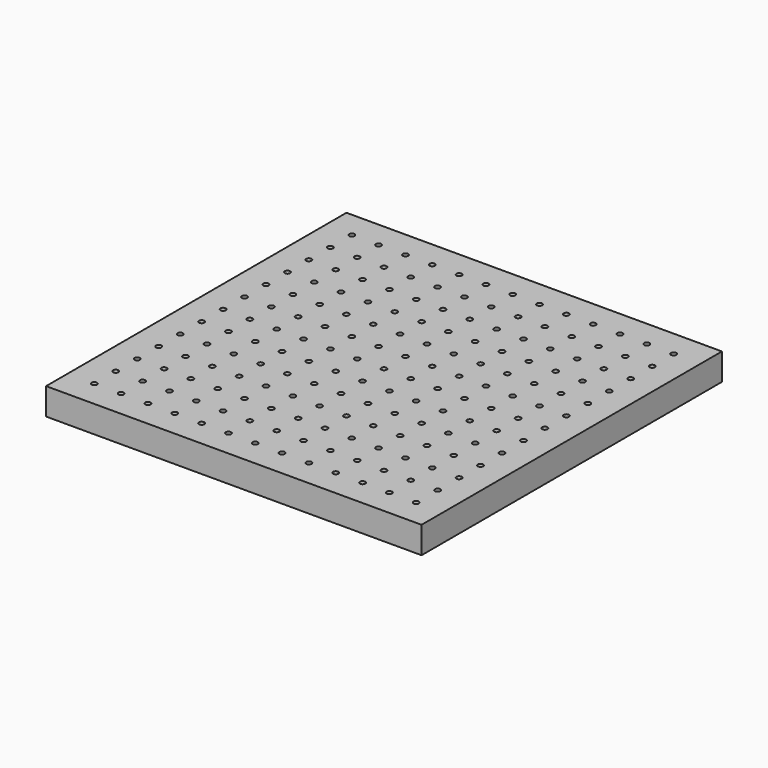
from build123d import *

# Parameters (mm, degrees)
F0_W     = 700
F0_H     = 700
F0_R     = 5
F1_DEPTH = 50


with BuildPart() as f1:
    # F0 (on Top) → F1 (new body)
    with BuildSketch(Plane.XY):
        Rectangle(F0_W, F0_H)
        with Locations((-300, -300)):
            Circle(F0_R, mode=Mode.SUBTRACT)
        with Locations((-250, -300)):
            Circle(F0_R, mode=Mode.SUBTRACT)
        with Locations((-200, -300)):
            Circle(F0_R, mode=Mode.SUBTRACT)
        with Locations((-300, -250)):
            Circle(F0_R, mode=Mode.SUBTRACT)
        with Locations((-300, -200)):
            Circle(F0_R, mode=Mode.SUBTRACT)
        with Locations((-250, -250)):
            Circle(F0_R, mode=Mode.SUBTRACT)
        with Locations((-200, -250)):
            Circle(F0_R, mode=Mode.SUBTRACT)
        with Locations((-250, -200)):
            Circle(F0_R, mode=Mode.SUBTRACT)
        with Locations((-200, -200)):
            Circle(F0_R, mode=Mode.SUBTRACT)
        with Locations((-150, -300)):
            Circle(F0_R, mode=Mode.SUBTRACT)
        with Locations((-100, -300)):
            Circle(F0_R, mode=Mode.SUBTRACT)
        with Locations((-50, -300)):
            Circle(F0_R, mode=Mode.SUBTRACT)
        with Locations((-150, -250)):
            Circle(F0_R, mode=Mode.SUBTRACT)
        with Locations((-100, -250)):
            Circle(F0_R, mode=Mode.SUBTRACT)
        with Locations((-150, -200)):
            Circle(F0_R, mode=Mode.SUBTRACT)
        with Locations((-100, -200)):
            Circle(F0_R, mode=Mode.SUBTRACT)
        with Locations((-50, -250)):
            Circle(F0_R, mode=Mode.SUBTRACT)
        with Locations((-50, -200)):
            Circle(F0_R, mode=Mode.SUBTRACT)
        with Locations((-300, -150)):
            Circle(F0_R, mode=Mode.SUBTRACT)
        with Locations((-300, -100)):
            Circle(F0_R, mode=Mode.SUBTRACT)
        with Locations((-250, -150)):
            Circle(F0_R, mode=Mode.SUBTRACT)
        with Locations((-200, -150)):
            Circle(F0_R, mode=Mode.SUBTRACT)
        with Locations((-250, -100)):
            Circle(F0_R, mode=Mode.SUBTRACT)
        with Locations((-200, -100)):
            Circle(F0_R, mode=Mode.SUBTRACT)
        with Locations((-300, -50)):
            Circle(F0_R, mode=Mode.SUBTRACT)
        with Locations((-250, -50)):
            Circle(F0_R, mode=Mode.SUBTRACT)
        with Locations((-200, -50)):
            Circle(F0_R, mode=Mode.SUBTRACT)
        with Locations((-150, -150)):
            Circle(F0_R, mode=Mode.SUBTRACT)
        with Locations((-100, -150)):
            Circle(F0_R, mode=Mode.SUBTRACT)
        with Locations((-150, -100)):
            Circle(F0_R, mode=Mode.SUBTRACT)
        with Locations((-100, -100)):
            Circle(F0_R, mode=Mode.SUBTRACT)
        with Locations((-50, -150)):
            Circle(F0_R, mode=Mode.SUBTRACT)
        with Locations((-50, -100)):
            Circle(F0_R, mode=Mode.SUBTRACT)
        with Locations((-150, -50)):
            Circle(F0_R, mode=Mode.SUBTRACT)
        with Locations((-100, -50)):
            Circle(F0_R, mode=Mode.SUBTRACT)
        with Locations((-50, -50)):
            Circle(F0_R, mode=Mode.SUBTRACT)
        with Locations((0, -300)):
            Circle(F0_R, mode=Mode.SUBTRACT)
        with Locations((50, -300)):
            Circle(F0_R, mode=Mode.SUBTRACT)
        with Locations((100, -300)):
            Circle(F0_R, mode=Mode.SUBTRACT)
        with Locations((150, -300)):
            Circle(F0_R, mode=Mode.SUBTRACT)
        with Locations((0, -250)):
            Circle(F0_R, mode=Mode.SUBTRACT)
        with Locations((50, -250)):
            Circle(F0_R, mode=Mode.SUBTRACT)
        with Locations((0, -200)):
            Circle(F0_R, mode=Mode.SUBTRACT)
        with Locations((50, -200)):
            Circle(F0_R, mode=Mode.SUBTRACT)
        with Locations((100, -250)):
            Circle(F0_R, mode=Mode.SUBTRACT)
        with Locations((150, -250)):
            Circle(F0_R, mode=Mode.SUBTRACT)
        with Locations((100, -200)):
            Circle(F0_R, mode=Mode.SUBTRACT)
        with Locations((150, -200)):
            Circle(F0_R, mode=Mode.SUBTRACT)
        with Locations((200, -300)):
            Circle(F0_R, mode=Mode.SUBTRACT)
        with Locations((250, -300)):
            Circle(F0_R, mode=Mode.SUBTRACT)
        with Locations((300, -300)):
            Circle(F0_R, mode=Mode.SUBTRACT)
        with Locations((200, -250)):
            Circle(F0_R, mode=Mode.SUBTRACT)
        with Locations((250, -250)):
            Circle(F0_R, mode=Mode.SUBTRACT)
        with Locations((200, -200)):
            Circle(F0_R, mode=Mode.SUBTRACT)
        with Locations((250, -200)):
            Circle(F0_R, mode=Mode.SUBTRACT)
        with Locations((300, -250)):
            Circle(F0_R, mode=Mode.SUBTRACT)
        with Locations((300, -200)):
            Circle(F0_R, mode=Mode.SUBTRACT)
        with Locations((0, -150)):
            Circle(F0_R, mode=Mode.SUBTRACT)
        with Locations((50, -150)):
            Circle(F0_R, mode=Mode.SUBTRACT)
        with Locations((0, -100)):
            Circle(F0_R, mode=Mode.SUBTRACT)
        with Locations((50, -100)):
            Circle(F0_R, mode=Mode.SUBTRACT)
        with Locations((100, -150)):
            Circle(F0_R, mode=Mode.SUBTRACT)
        with Locations((150, -150)):
            Circle(F0_R, mode=Mode.SUBTRACT)
        with Locations((100, -100)):
            Circle(F0_R, mode=Mode.SUBTRACT)
        with Locations((150, -100)):
            Circle(F0_R, mode=Mode.SUBTRACT)
        with Locations((0, -50)):
            Circle(F0_R, mode=Mode.SUBTRACT)
        with Locations((50, -50)):
            Circle(F0_R, mode=Mode.SUBTRACT)
        with Locations((100, -50)):
            Circle(F0_R, mode=Mode.SUBTRACT)
        with Locations((150, -50)):
            Circle(F0_R, mode=Mode.SUBTRACT)
        with Locations((200, -150)):
            Circle(F0_R, mode=Mode.SUBTRACT)
        with Locations((250, -150)):
            Circle(F0_R, mode=Mode.SUBTRACT)
        with Locations((200, -100)):
            Circle(F0_R, mode=Mode.SUBTRACT)
        with Locations((250, -100)):
            Circle(F0_R, mode=Mode.SUBTRACT)
        with Locations((300, -150)):
            Circle(F0_R, mode=Mode.SUBTRACT)
        with Locations((300, -100)):
            Circle(F0_R, mode=Mode.SUBTRACT)
        with Locations((200, -50)):
            Circle(F0_R, mode=Mode.SUBTRACT)
        with Locations((250, -50)):
            Circle(F0_R, mode=Mode.SUBTRACT)
        with Locations((300, -50)):
            Circle(F0_R, mode=Mode.SUBTRACT)
        with Locations((-300, 0)):
            Circle(F0_R, mode=Mode.SUBTRACT)
        with Locations((-300, 50)):
            Circle(F0_R, mode=Mode.SUBTRACT)
        with Locations((-250, 0)):
            Circle(F0_R, mode=Mode.SUBTRACT)
        with Locations((-200, 0)):
            Circle(F0_R, mode=Mode.SUBTRACT)
        with Locations((-250, 50)):
            Circle(F0_R, mode=Mode.SUBTRACT)
        with Locations((-200, 50)):
            Circle(F0_R, mode=Mode.SUBTRACT)
        with Locations((-300, 100)):
            Circle(F0_R, mode=Mode.SUBTRACT)
        with Locations((-300, 150)):
            Circle(F0_R, mode=Mode.SUBTRACT)
        with Locations((-250, 100)):
            Circle(F0_R, mode=Mode.SUBTRACT)
        with Locations((-200, 100)):
            Circle(F0_R, mode=Mode.SUBTRACT)
        with Locations((-250, 150)):
            Circle(F0_R, mode=Mode.SUBTRACT)
        with Locations((-200, 150)):
            Circle(F0_R, mode=Mode.SUBTRACT)
        with Locations((-150, 0)):
            Circle(F0_R, mode=Mode.SUBTRACT)
        with Locations((-100, 0)):
            Circle(F0_R, mode=Mode.SUBTRACT)
        with Locations((-150, 50)):
            Circle(F0_R, mode=Mode.SUBTRACT)
        with Locations((-100, 50)):
            Circle(F0_R, mode=Mode.SUBTRACT)
        with Locations((-50, 0)):
            Circle(F0_R, mode=Mode.SUBTRACT)
        with Locations((-50, 50)):
            Circle(F0_R, mode=Mode.SUBTRACT)
        with Locations((-150, 100)):
            Circle(F0_R, mode=Mode.SUBTRACT)
        with Locations((-100, 100)):
            Circle(F0_R, mode=Mode.SUBTRACT)
        with Locations((-150, 150)):
            Circle(F0_R, mode=Mode.SUBTRACT)
        with Locations((-100, 150)):
            Circle(F0_R, mode=Mode.SUBTRACT)
        with Locations((-50, 100)):
            Circle(F0_R, mode=Mode.SUBTRACT)
        with Locations((-50, 150)):
            Circle(F0_R, mode=Mode.SUBTRACT)
        with Locations((-300, 200)):
            Circle(F0_R, mode=Mode.SUBTRACT)
        with Locations((-300, 250)):
            Circle(F0_R, mode=Mode.SUBTRACT)
        with Locations((-250, 200)):
            Circle(F0_R, mode=Mode.SUBTRACT)
        with Locations((-200, 200)):
            Circle(F0_R, mode=Mode.SUBTRACT)
        with Locations((-250, 250)):
            Circle(F0_R, mode=Mode.SUBTRACT)
        with Locations((-200, 250)):
            Circle(F0_R, mode=Mode.SUBTRACT)
        with Locations((-300, 300)):
            Circle(F0_R, mode=Mode.SUBTRACT)
        with Locations((-250, 300)):
            Circle(F0_R, mode=Mode.SUBTRACT)
        with Locations((-200, 300)):
            Circle(F0_R, mode=Mode.SUBTRACT)
        with Locations((-150, 200)):
            Circle(F0_R, mode=Mode.SUBTRACT)
        with Locations((-100, 200)):
            Circle(F0_R, mode=Mode.SUBTRACT)
        with Locations((-150, 250)):
            Circle(F0_R, mode=Mode.SUBTRACT)
        with Locations((-100, 250)):
            Circle(F0_R, mode=Mode.SUBTRACT)
        with Locations((-50, 200)):
            Circle(F0_R, mode=Mode.SUBTRACT)
        with Locations((-50, 250)):
            Circle(F0_R, mode=Mode.SUBTRACT)
        with Locations((-150, 300)):
            Circle(F0_R, mode=Mode.SUBTRACT)
        with Locations((-100, 300)):
            Circle(F0_R, mode=Mode.SUBTRACT)
        with Locations((-50, 300)):
            Circle(F0_R, mode=Mode.SUBTRACT)
        Circle(F0_R, mode=Mode.SUBTRACT)
        with Locations((50, 0)):
            Circle(F0_R, mode=Mode.SUBTRACT)
        with Locations((0, 50)):
            Circle(F0_R, mode=Mode.SUBTRACT)
        with Locations((50, 50)):
            Circle(F0_R, mode=Mode.SUBTRACT)
        with Locations((100, 0)):
            Circle(F0_R, mode=Mode.SUBTRACT)
        with Locations((150, 0)):
            Circle(F0_R, mode=Mode.SUBTRACT)
        with Locations((100, 50)):
            Circle(F0_R, mode=Mode.SUBTRACT)
        with Locations((150, 50)):
            Circle(F0_R, mode=Mode.SUBTRACT)
        with Locations((0, 100)):
            Circle(F0_R, mode=Mode.SUBTRACT)
        with Locations((50, 100)):
            Circle(F0_R, mode=Mode.SUBTRACT)
        with Locations((0, 150)):
            Circle(F0_R, mode=Mode.SUBTRACT)
        with Locations((50, 150)):
            Circle(F0_R, mode=Mode.SUBTRACT)
        with Locations((100, 100)):
            Circle(F0_R, mode=Mode.SUBTRACT)
        with Locations((150, 100)):
            Circle(F0_R, mode=Mode.SUBTRACT)
        with Locations((100, 150)):
            Circle(F0_R, mode=Mode.SUBTRACT)
        with Locations((150, 150)):
            Circle(F0_R, mode=Mode.SUBTRACT)
        with Locations((200, 0)):
            Circle(F0_R, mode=Mode.SUBTRACT)
        with Locations((250, 0)):
            Circle(F0_R, mode=Mode.SUBTRACT)
        with Locations((200, 50)):
            Circle(F0_R, mode=Mode.SUBTRACT)
        with Locations((250, 50)):
            Circle(F0_R, mode=Mode.SUBTRACT)
        with Locations((300, 0)):
            Circle(F0_R, mode=Mode.SUBTRACT)
        with Locations((300, 50)):
            Circle(F0_R, mode=Mode.SUBTRACT)
        with Locations((200, 100)):
            Circle(F0_R, mode=Mode.SUBTRACT)
        with Locations((250, 100)):
            Circle(F0_R, mode=Mode.SUBTRACT)
        with Locations((200, 150)):
            Circle(F0_R, mode=Mode.SUBTRACT)
        with Locations((250, 150)):
            Circle(F0_R, mode=Mode.SUBTRACT)
        with Locations((300, 100)):
            Circle(F0_R, mode=Mode.SUBTRACT)
        with Locations((300, 150)):
            Circle(F0_R, mode=Mode.SUBTRACT)
        with Locations((0, 200)):
            Circle(F0_R, mode=Mode.SUBTRACT)
        with Locations((50, 200)):
            Circle(F0_R, mode=Mode.SUBTRACT)
        with Locations((0, 250)):
            Circle(F0_R, mode=Mode.SUBTRACT)
        with Locations((50, 250)):
            Circle(F0_R, mode=Mode.SUBTRACT)
        with Locations((100, 200)):
            Circle(F0_R, mode=Mode.SUBTRACT)
        with Locations((150, 200)):
            Circle(F0_R, mode=Mode.SUBTRACT)
        with Locations((100, 250)):
            Circle(F0_R, mode=Mode.SUBTRACT)
        with Locations((150, 250)):
            Circle(F0_R, mode=Mode.SUBTRACT)
        with Locations((0, 300)):
            Circle(F0_R, mode=Mode.SUBTRACT)
        with Locations((50, 300)):
            Circle(F0_R, mode=Mode.SUBTRACT)
        with Locations((100, 300)):
            Circle(F0_R, mode=Mode.SUBTRACT)
        with Locations((150, 300)):
            Circle(F0_R, mode=Mode.SUBTRACT)
        with Locations((200, 200)):
            Circle(F0_R, mode=Mode.SUBTRACT)
        with Locations((250, 200)):
            Circle(F0_R, mode=Mode.SUBTRACT)
        with Locations((200, 250)):
            Circle(F0_R, mode=Mode.SUBTRACT)
        with Locations((250, 250)):
            Circle(F0_R, mode=Mode.SUBTRACT)
        with Locations((300, 200)):
            Circle(F0_R, mode=Mode.SUBTRACT)
        with Locations((300, 250)):
            Circle(F0_R, mode=Mode.SUBTRACT)
        with Locations((200, 300)):
            Circle(F0_R, mode=Mode.SUBTRACT)
        with Locations((250, 300)):
            Circle(F0_R, mode=Mode.SUBTRACT)
        with Locations((300, 300)):
            Circle(F0_R, mode=Mode.SUBTRACT)
    extrude(amount=F1_DEPTH)


solid = f1.part
